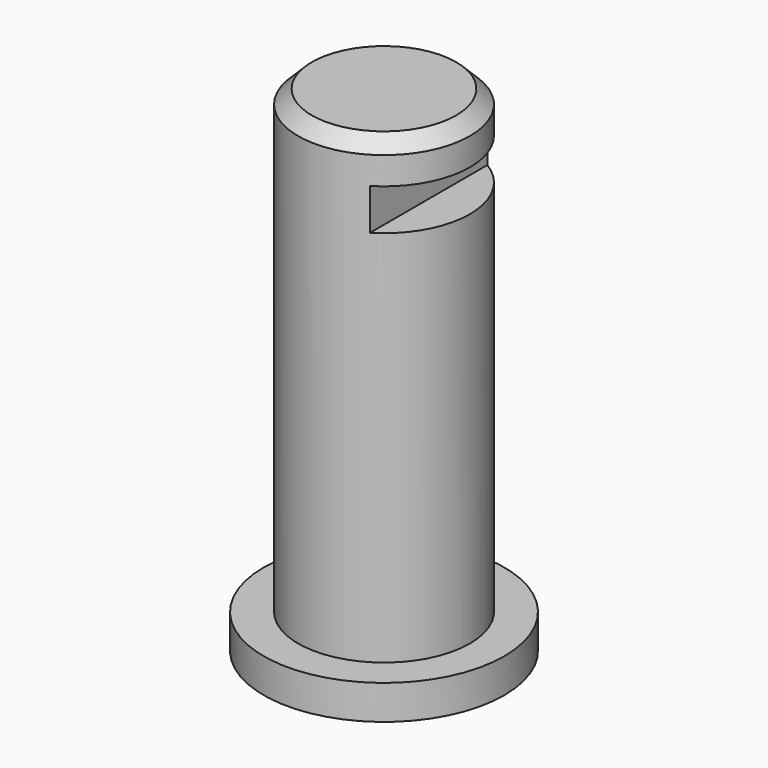
from build123d import *

# Parameters (mm, degrees)
F0_R          = 17.5
F1_DEPTH      = 5
F2_R          = 12.5
F3_DEPTH      = 72
F4_W          = 10
F4_H          = 6
F5_DEPTH      = 17.501
F5_DEPTH_BACK = 17.501
F6_SIZE2      = 2
F6_SIZE       = 2


with BuildPart() as f1:
    # F0 (on Top) → F1 (new body)
    with BuildSketch(Plane.XY):
        Circle(F0_R)
    extrude(amount=F1_DEPTH)

    # F2 (on Top) → F3 (join)
    with BuildSketch(Plane.XY):
        Circle(F2_R)
    extrude(amount=F3_DEPTH)

    # F4 (on Front) → F5 (cut, two sides)
    with BuildSketch(Plane.XZ) as f5_sk:
        with Locations((11.5, 63)):
            Rectangle(F4_W, F4_H)
    extrude(amount=-F5_DEPTH, mode=Mode.SUBTRACT)
    extrude(f5_sk.sketch, amount=F5_DEPTH_BACK, mode=Mode.SUBTRACT)

    # F6
    f6_edges = [f1.edges().sort_by_distance(p)[0] for p in [
        (-12.5, 0, 72),
    ]]
    chamfer(f6_edges, length=F6_SIZE, length2=F6_SIZE2)


solid = f1.part
